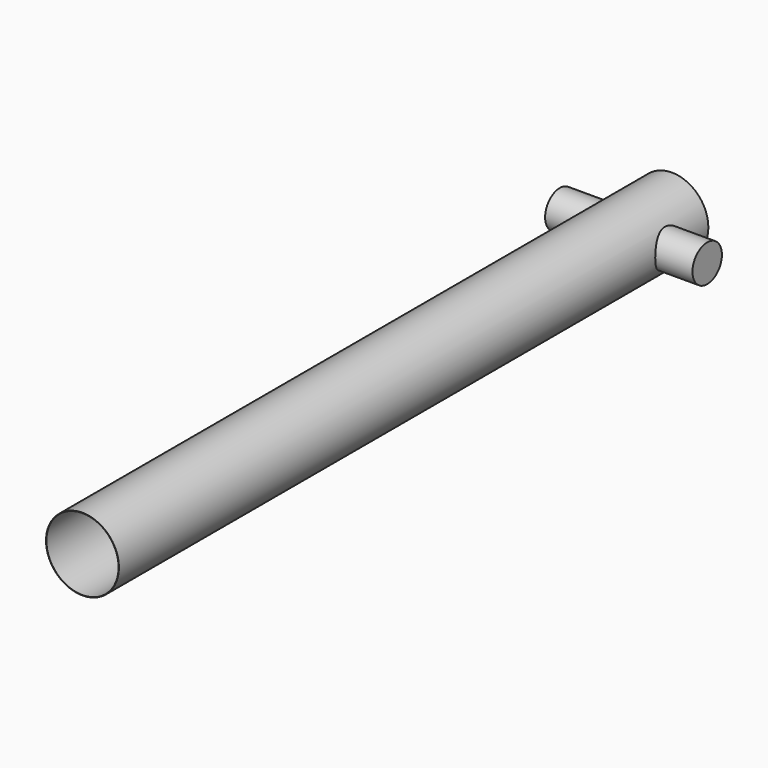
from build123d import *

# Parameters (mm, degrees)
F0_R     = 2.475
F0_R_2   = 2.45
F1_DEPTH = 50
F2_R     = 1.25
F3_DEPTH = 5


with BuildPart() as f1:
    # F0 (on Front) → F1 (new body)
    with BuildSketch(Plane.XZ):
        Circle(F0_R)
        Circle(F0_R_2, mode=Mode.SUBTRACT)
    extrude(amount=F1_DEPTH)

    # F2 (on Right) → F3 (join, symmetric)
    with BuildSketch(Plane.YZ):
        with Locations((-3.255911, 0)):
            Circle(F2_R)
    extrude(amount=F3_DEPTH, both=True)


solid = f1.part
